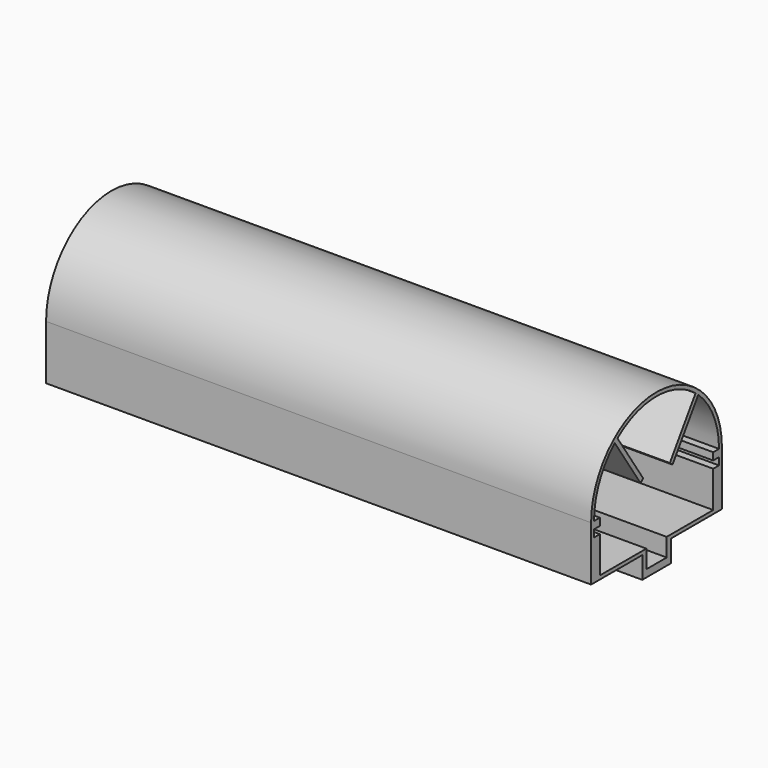
from build123d import *

# Parameters (mm, degrees)
F1_DEPTH = 150
F3_DEPTH = 147
F4_R     = 2.5
F5_DEPTH = 3
F6_R     = 1.5
F7_DEPTH = 3
F8_R     = 3
F9_DEPTH = 2


with BuildPart() as f1:
    # F0 (on Right) → F1 (new body)
    with BuildSketch(Plane.YZ):
        with BuildLine():
            Line((-22.5, 15), (-22.5, 0))
            Line((-22.5, 0), (-4.9, 0))
            Line((-4.9, 0), (-4.9, -6))
            Line((-4.9, -6), (4.9, -6))
            Line((4.9, -6), (4.9, 0))
            Line((4.9, 0), (22.5, 0))
            Line((22.5, 0), (22.5, 15))
            ThreePointArc((22.5, 15), (0, 37.5), (-22.5, 15))
        make_face()
    extrude(amount=F1_DEPTH)

    # F2 (on face) → F3 (cut)
    with BuildSketch(Plane.YZ.offset(150)):
        with BuildLine():
            Line((-19.5, 11), (-19.5, 1))
            Line((-19.5, 1), (-3.5, 1))
            Line((-3.5, 1), (-3.5, -4))
            Line((-3.5, -4), (3.5, -4))
            Line((3.5, -4), (3.5, 1))
            Line((3.5, 1), (19.5, 1))
            Line((19.5, 1), (19.5, 11))
            Line((19.5, 11), (21.5, 11))
            Line((21.5, 11), (21.5, 13))
            Line((21.5, 13), (19.5, 13))
            Line((19.5, 13), (19.5, 15))
            Line((19.5, 15), (21.5, 15))
            ThreePointArc((21.5, 15), (19.634412, 23.76013), (14.361407, 31))
            Line((14.361407, 31), (5.5, 17.678008))
            Line((5.5, 17.678008), (4.578571, 18.459456))
            Line((4.578571, 18.459456), (13.439978, 31.781448))
            ThreePointArc((13.439978, 31.781448), (0, 36.5), (-13.439978, 31.781448))
            Line((-13.439978, 31.781448), (-4.578571, 18.459456))
            Line((-4.578571, 18.459456), (-5.5, 17.678008))
            Line((-5.5, 17.678008), (-14.361407, 31))
            ThreePointArc((-14.361407, 31), (-19.634412, 23.76013), (-21.5, 15))
            Line((-21.5, 15), (-19.5, 15))
            Line((-19.5, 15), (-19.5, 13))
            Line((-19.5, 13), (-21.5, 13))
            Line((-21.5, 13), (-21.5, 11))
            Line((-21.5, 11), (-19.5, 11))
        make_face()
    extrude(amount=-F3_DEPTH, mode=Mode.SUBTRACT)

    # F4 (on face) → F5 (cut, through all)
    with BuildSketch(Plane(origin=(0, 0, 0), x_dir=(0, -1, 0), z_dir=(-1, 0, 0))):
        with Locations((0, -1)):
            Circle(F4_R)
    extrude(amount=-F5_DEPTH, mode=Mode.SUBTRACT)

    # F6 (on face) → F7 (cut, through all)
    with BuildSketch(Plane(origin=(0, 0, 0), x_dir=(0, -1, 0), z_dir=(-1, 0, 0))):
        with Locations((-16, 8)):
            Circle(F6_R)
        with Locations((-16, 17)):
            Circle(F6_R)
        with Locations((-8, 8)):
            Circle(F6_R)
        with Locations((-8, 17)):
            Circle(F6_R)
        with Locations((0, 8)):
            Circle(F6_R)
        with Locations((0, 17)):
            Circle(F6_R)
        with Locations((8, 8)):
            Circle(F6_R)
        with Locations((8, 17)):
            Circle(F6_R)
        with Locations((16, 8)):
            Circle(F6_R)
        with Locations((16, 17)):
            Circle(F6_R)
    extrude(amount=-F7_DEPTH, mode=Mode.SUBTRACT)

    # F8 (on face) → F9 (cut, through all)
    with BuildSketch(Plane(origin=(0, 0, -6), x_dir=(1, 0, 0), z_dir=(0, 0, -1))):
        with Locations((142, 0)):
            Circle(F8_R)
    extrude(amount=-F9_DEPTH, mode=Mode.SUBTRACT)


solid = f1.part
